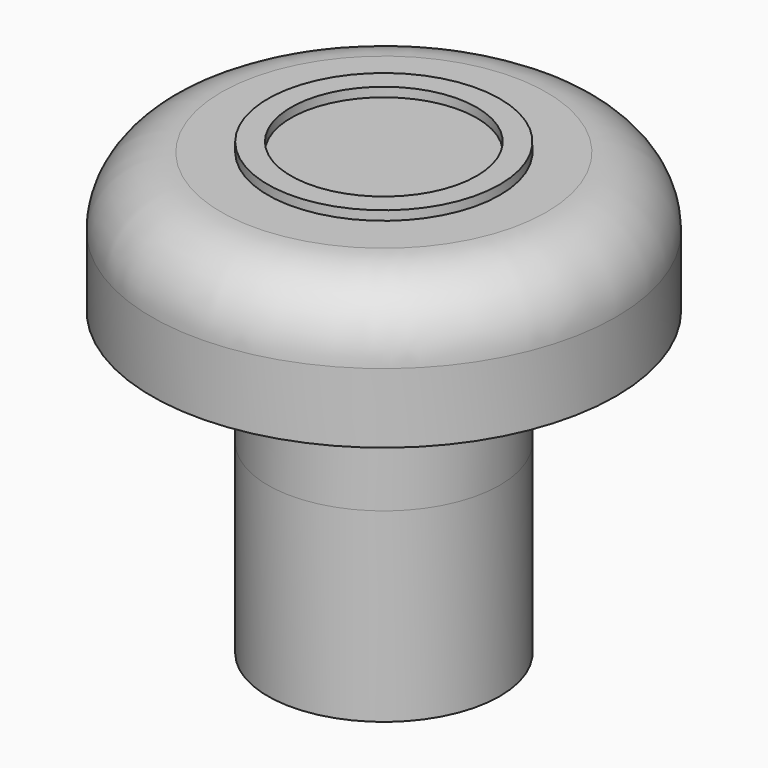
from build123d import *

# Parameters (mm, degrees)
SKETCH046_R     = 2.5
PAD023_DEPTH    = 2.5
SKETCH047_R     = 5
PAD024_DEPTH    = 3
FILLET003_R     = 1.5
SKETCH049_R     = 2.5
PAD025_DEPTH    = 4
SKETCH050_R     = 1.5
POCKET026_DEPTH = 4
SKETCH092_R     = 2.5
SKETCH092_R_2   = 2
PAD058_DEPTH    = 0.2


with BuildPart() as part:
    # Sketch046 → Pad023 (new body)
    with BuildSketch(Plane(origin=(0, 0, 30), x_dir=(1, 0, 0), z_dir=(0, 0, -1))):
        with Locations((101, 55)):
            Circle(SKETCH046_R)
    extrude(amount=-PAD023_DEPTH)

    # Sketch047 (on Face3 of Pad023) → Pad024 (join)
    with BuildSketch(Plane.XY.offset(32.5)):
        with Locations((101, -55)):
            Circle(SKETCH047_R)
    extrude(amount=PAD024_DEPTH)

    # Fillet003
    fillet003_edges = [part.edges().sort_by_distance(p)[0] for p in [
        (96, -55, 35.5),
    ]]
    fillet(fillet003_edges, radius=FILLET003_R)

    # Sketch049 → Pad025 (join)
    with BuildSketch(Plane(origin=(0, 0, 30), x_dir=(1, 0, 0), z_dir=(0, 0, -1))):
        with Locations((101, 55)):
            Circle(SKETCH049_R)
    extrude(amount=PAD025_DEPTH)

    # Sketch050 (on Face17 of Pad025) → Pocket026 (cut)
    with BuildSketch(Plane(origin=(0, 0, 26), x_dir=(1, 0, 0), z_dir=(0, 0, -1))):
        with Locations((101, 55)):
            Circle(SKETCH050_R)
    extrude(amount=-POCKET026_DEPTH, mode=Mode.SUBTRACT)


with BuildPart() as part_1:
    # Body002 placement: moved
    add(part.part.moved(Location((75, 0, 0))))

    # Sketch092 (on Face4 of Clone006) → Pad058 (new body)
    with BuildSketch(Plane(origin=(75, 0, 35.5), x_dir=(1, 0, 0), z_dir=(0, 0, 1))):
        with Locations((101, -55)):
            Circle(SKETCH092_R)
        with Locations((101, -55)):
            Circle(SKETCH092_R_2, mode=Mode.SUBTRACT)
    extrude(amount=PAD058_DEPTH)


with BuildPart() as part_2:
    # Body015 placement: moved
    add(part_1.part.moved(Location((-40, 33.5, 0))))


solid = part_2.part
